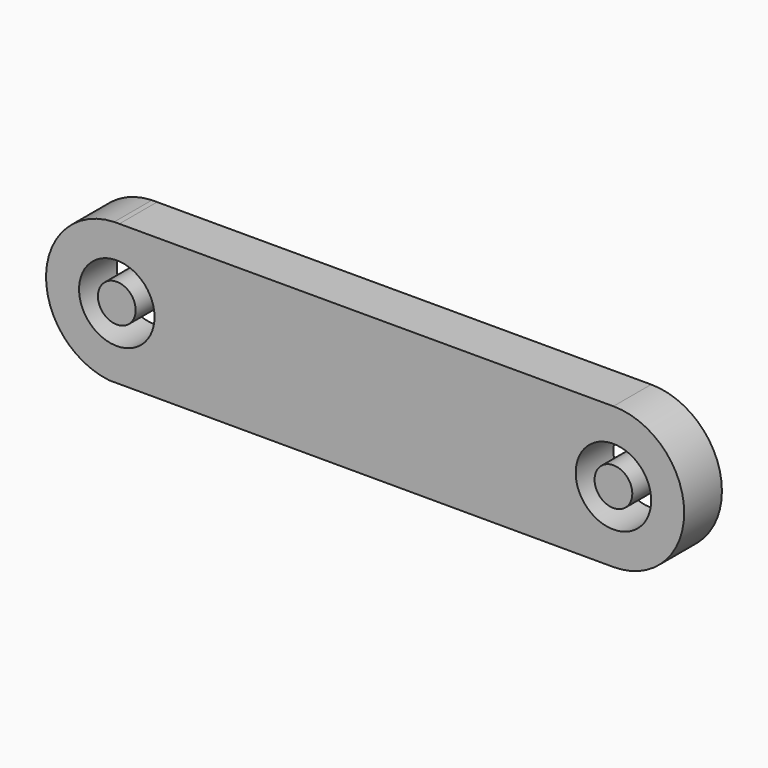
from build123d import *

# Parameters (mm, degrees)
F0_R     = 4
F0_R_2   = 2
F1_DEPTH = 5


with BuildPart() as f1:
    # F0 (on Front) → F1 (new body)
    with BuildSketch(Plane.XZ):
        with BuildLine():
            Line((35.740174, 7.5), (-16.630535, 7.49504))
            Line((-16.630535, 7.49504), (-17.177368, 7.494989))
            ThreePointArc((-17.177368, 7.494989), (-24.398712, 0.260615), (-17.697274, -7.457849))
            Line((-17.697274, -7.457849), (-16.120977, -7.459093))
            Line((-16.120977, -7.459093), (35.734968, -7.499998))
            ThreePointArc((35.734968, -7.499998), (43.240884, -0.002603), (35.740174, 7.5))
        make_face()
        with Locations((-16.903242, 0)):
            Circle(F0_R, mode=Mode.SUBTRACT)
        with Locations((35.740884, 0)):
            Circle(F0_R, mode=Mode.SUBTRACT)
        with Locations((35.740884, 0)):
            Circle(F0_R_2)
        with Locations((-16.903242, 0)):
            Circle(F0_R_2)
    extrude(amount=F1_DEPTH)


solid = f1.part
